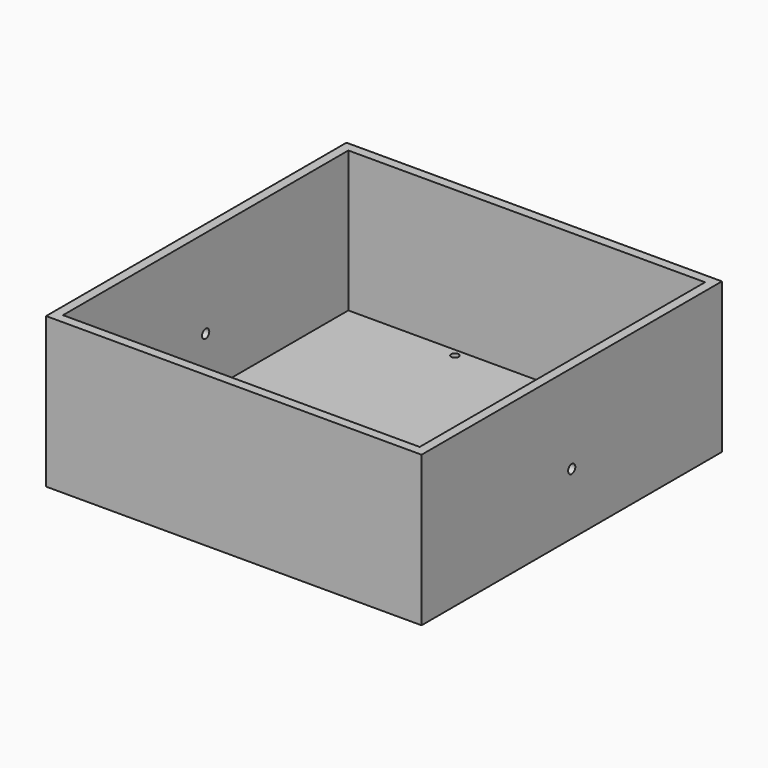
from build123d import *

# Parameters (mm, degrees)
F0_W     = 100
F0_H     = 100
F1_DEPTH = 40
F2_T     = -2.5
F3_R     = 1.2
F4_DEPTH = 97.501
F5_DEPTH = 25
F6_R     = 1
F7_DEPTH = 25


with BuildPart() as f1:
    # F0 (on Top) → F1 (new body)
    with BuildSketch(Plane.XY):
        Rectangle(F0_W, F0_H)
    extrude(amount=F1_DEPTH)

    # F2
    f2_openings = [f1.faces().sort_by_distance(p)[0] for p in [
        (0, 0, 40),
    ]]
    offset(amount=F2_T, openings=f2_openings)

    # F3 (on face) → F4 (cut, through all)
    with BuildSketch(Plane(origin=(47.5, 0, 0), x_dir=(0, -1, 0), z_dir=(-1, 0, 0))):
        with Locations((0, 16.35)):
            Circle(F3_R)
    extrude(amount=F4_DEPTH, mode=Mode.SUBTRACT)

    # F3 (on face) → F5 (cut)
    with BuildSketch(Plane(origin=(47.5, 0, 0), x_dir=(0, -1, 0), z_dir=(-1, 0, 0))):
        with Locations((0, 16.35)):
            Circle(F3_R)
    extrude(amount=-F5_DEPTH, mode=Mode.SUBTRACT)

    # F6 (on face) → F7 (cut)
    with BuildSketch(Plane.XY.offset(2.5)):
        with Locations((-17.5, -8.5)):
            Circle(F6_R)
        with Locations((17.5, -8.5)):
            Circle(F6_R)
        with Locations((17.5, 45.5)):
            Circle(F6_R)
        with Locations((-17.5, 45.5)):
            Circle(F6_R)
    extrude(amount=-F7_DEPTH, mode=Mode.SUBTRACT)


solid = f1.part
